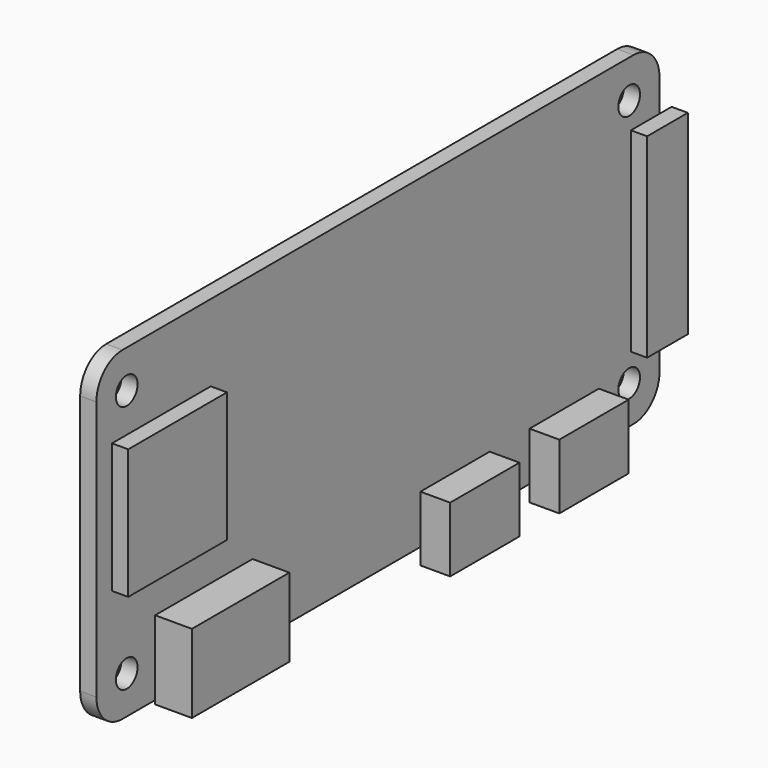
from build123d import *

# Parameters (mm, degrees)
F1_DEPTH = 0.75
F2_R     = 1.25
F3_DEPTH = 1.5
F4_W     = 11.25
F4_H     = 0.35
F4_H_2   = 6.9
F5_DEPTH = 3.4
F4_W_2   = 8
F4_H_3   = 4.5
F4_H_4   = 1.5
F6_DEPTH = 2.75
F4_W_3   = 1.4
F4_H_5   = 18
F4_W_4   = 3.3
F7_DEPTH = 1.5
F4_W_5   = 11.4
F4_H_6   = 12
F8_DEPTH = 1.5


with BuildPart() as f1:
    # F0 (on Right) → F1 (new body, symmetric)
    with BuildSketch(Plane.YZ):
        with BuildLine():
            Line((29.5, 15), (-29.5, 15))
            ThreePointArc((-29.5, 15), (-31.62132, 14.12132), (-32.5, 12))
            Line((-32.5, 12), (-32.5, -12))
            ThreePointArc((-32.5, -12), (-31.62132, -14.12132), (-29.5, -15))
            Line((-29.5, -15), (29.5, -15))
            ThreePointArc((29.5, -15), (31.62132, -14.12132), (32.5, -12))
            Line((32.5, -12), (32.5, 12))
            ThreePointArc((32.5, 12), (31.62132, 14.12132), (29.5, 15))
        make_face()
    extrude(amount=F1_DEPTH, both=True)

    # F2 (on face) → F3 (cut, through all)
    with BuildSketch(Plane.YZ.offset(0.75)):
        with Locations((-29, 11.5)):
            Circle(F2_R)
        with Locations((29, 11.5)):
            Circle(F2_R)
        with Locations((29, -11.5)):
            Circle(F2_R)
        with Locations((-29, -11.5)):
            Circle(F2_R)
    extrude(amount=-F3_DEPTH, mode=Mode.SUBTRACT)

    # F4 (on face) → F5 (join)
    with BuildSketch(Plane.YZ.offset(0.75)):
        with Locations((-20.1, -15.175)):
            Rectangle(F4_W, F4_H)
        with Locations((-20.1, -11.55)):
            Rectangle(F4_W, F4_H_2)
    extrude(amount=F5_DEPTH)

    # F4 (on face) → F6 (join)
    with BuildSketch(Plane.YZ.offset(0.75)):
        with Locations((8.9, -12.75)):
            Rectangle(F4_W_2, F4_H_3)
        with Locations((8.9, -15.75)):
            Rectangle(F4_W_2, F4_H_4)
        with Locations((21.5, -12.75)):
            Rectangle(F4_W_2, F4_H_3)
        with Locations((21.5, -15.75)):
            Rectangle(F4_W_2, F4_H_4)
    extrude(amount=F6_DEPTH)

    # F4 (on face) → F7 (join)
    with BuildSketch(Plane.YZ.offset(0.75)):
        with Locations((33.2, 0)):
            Rectangle(F4_W_3, F4_H_5)
        with Locations((30.85, 0)):
            Rectangle(F4_W_4, F4_H_5)
    extrude(amount=F7_DEPTH)

    # F4 (on face) → F8 (join)
    with BuildSketch(Plane.YZ.offset(0.75)):
        with Locations((-25, 1.9)):
            Rectangle(F4_W_5, F4_H_6)
    extrude(amount=F8_DEPTH)


solid = f1.part
